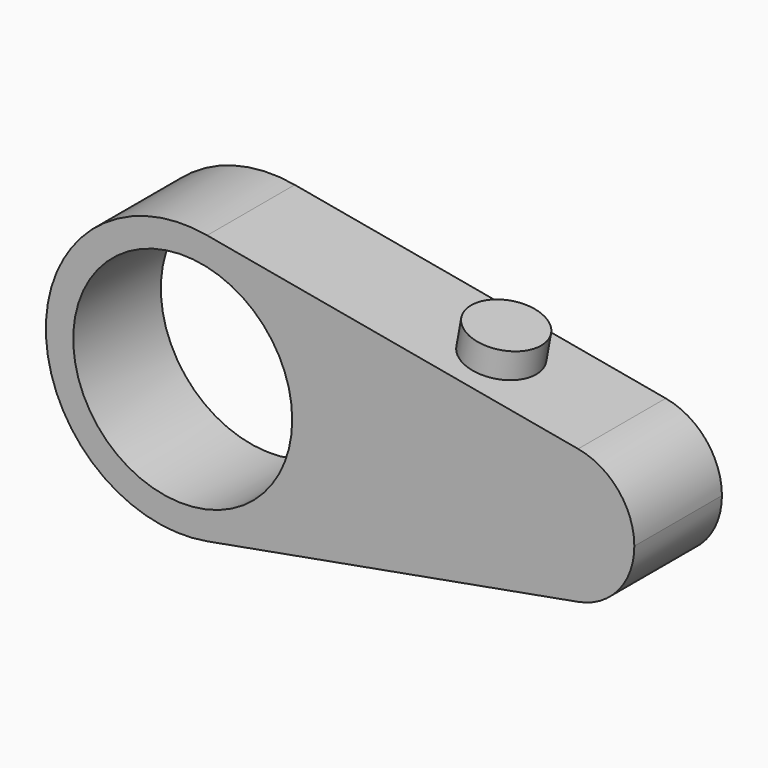
from build123d import *

# Parameters (mm, degrees)
F0_R     = 20
F1_DEPTH = 10
F2_R     = 6.5067512216
F3_DEPTH = 5


with BuildPart() as f1:
    # F0 (on Front) → F1 (new body, symmetric)
    with BuildSketch(Plane.XZ):
        with BuildLine():
            ThreePointArc((4.4642857143, -24.5981737749), (19.1912368395, -16.0217486115), (25, 0))
            ThreePointArc((25, 0), (19.1912368395, 16.0217486115), (4.4642857143, 24.5981737749))
            ThreePointArc((4.4642857143, 24.5981737749), (-25, 0), (4.4642857143, -24.5981737749))
        make_face()
        Circle(F0_R, mode=Mode.SUBTRACT)
        with BuildLine():
            ThreePointArc((4.4642857143, 24.5981737749), (19.1912368395, 16.0217486115), (25, 0))
            ThreePointArc((25, 0), (19.1912368395, -16.0217486115), (4.4642857143, -24.5981737749))
            Line((4.4642857143, -24.5981737749), (72.2321428571, -12.2990868875))
            ThreePointArc((72.2321428571, -12.2990868875), (57.5, 0), (72.2321428571, 12.2990868875))
            Line((72.2321428571, 12.2990868875), (4.4642857143, 24.5981737749))
        make_face()
        with BuildLine():
            ThreePointArc((82.5, 0), (79.5956184197, 8.0108743058), (72.2321428571, 12.2990868875))
            ThreePointArc((72.2321428571, 12.2990868875), (57.5, 0), (72.2321428571, -12.2990868875))
            ThreePointArc((72.2321428571, -12.2990868875), (79.5956184197, -8.0108743058), (82.5, 0))
        make_face()
    extrude(amount=F1_DEPTH, both=True)

    # F2 (on face) → F3 (join)
    with BuildSketch(Plane(origin=(4.4642857143, 0, 24.5981737749), x_dir=(0.983926951, 0, -0.1785714286), z_dir=(0.1785714286, 0, 0.983926951))):
        with Locations((46.4787259698, 0)):
            Circle(F2_R)
    extrude(amount=F3_DEPTH)


solid = f1.part
